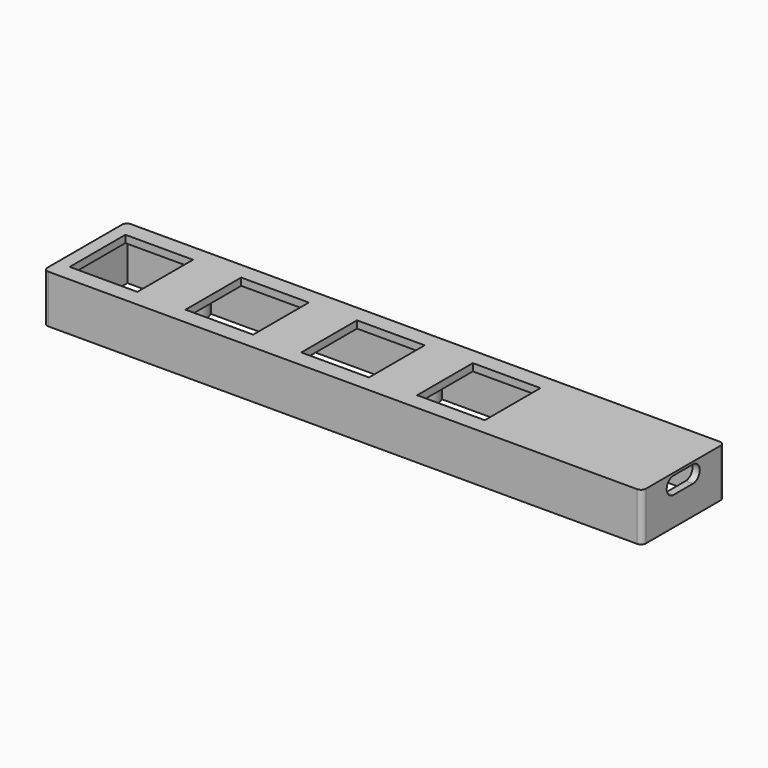
from build123d import *

# Parameters (mm, degrees)
SKETCH005_W     = 122.986
SKETCH005_H     = 21.18
SKETCH005_W_2   = 119.986
SKETCH005_H_2   = 18.18
PAD004_DEPTH    = 9.9
SKETCH006_W     = 122.986
SKETCH006_H     = 21.18
PAD005_DEPTH    = 1.5
SKETCH007_W     = 13.9
SKETCH007_H     = 14.3
POCKET001_DEPTH = 9.901
SKETCH008_R     = 1.45
SKETCH008_W     = 1.5
SKETCH008_H     = 18.18
PAD006_DEPTH    = 3.5
SKETCH009_W     = 9
SKETCH009_H     = 2
SKETCH009_W_2   = 17
PAD007_DEPTH    = 2
POCKET002_DEPTH = 6.5
FILLET_R        = 1
PAD008_DEPTH    = 18.18
SKETCH012_W     = 50
SKETCH012_H     = 5
POCKET003_DEPTH = 1
CHAMFER001_SIZE = 0.5
SKETCH013_R     = 1.45
POCKET004_DEPTH = 1


with BuildPart() as part:
    # Sketch005 (on ShapeBinder) → Pad004 (new body)
    with BuildSketch(Plane(origin=(-93.484762, 101.426, -4.5), x_dir=(1, 0, 0), z_dir=(0, 0, -1))):
        with Locations((153.277762, 92.79)):
            Rectangle(SKETCH005_W, SKETCH005_H)
        with Locations((153.277762, 92.79)):
            Rectangle(SKETCH005_W_2, SKETCH005_H_2, mode=Mode.SUBTRACT)
    extrude(amount=-PAD004_DEPTH)

    # Sketch006 (on Face10 of Pad004) → Pad005 (join)
    with BuildSketch(Plane(origin=(-93.484762, 101.426, 5.4), x_dir=(1, 0, 0), z_dir=(0, 0, 1))):
        with Locations((153.277762, -92.79)):
            Rectangle(SKETCH006_W, SKETCH006_H)
    extrude(amount=-PAD005_DEPTH)

    # Sketch007 (on Face16 of Pad005) → Pocket001 (cut, through all)
    with BuildSketch(Plane(origin=(-93.484762, 101.426, 5.4), x_dir=(1, 0, 0), z_dir=(0, 0, 1))):
        with Locations((101.358762, -92.79)):
            Rectangle(SKETCH007_W, SKETCH007_H)
        with Locations((125.158762, -92.79)):
            Rectangle(SKETCH007_W, SKETCH007_H)
        with Locations((148.958762, -92.79)):
            Rectangle(SKETCH007_W, SKETCH007_H)
        with Locations((172.758762, -92.79)):
            Rectangle(SKETCH007_W, SKETCH007_H)
    extrude(amount=-POCKET001_DEPTH, mode=Mode.SUBTRACT)

    # Sketch008 (on Face15 of Pocket001) → Pad006 (join)
    with BuildSketch(Plane(origin=(-93.484762, 101.426, 3.9), x_dir=(1, 0, 0), z_dir=(0, 0, -1))):
        with BuildLine():
            Line((112.483762, 96.208699), (112.483762, 101.88))
            Line((112.483762, 101.88), (113.983762, 101.88))
            Line((113.983762, 101.88), (113.983762, 96.208699))
            ThreePointArc((113.983762, 89.371301), (116.733762, 92.79), (113.983762, 96.208699))
            Line((113.983762, 83.7), (113.983762, 89.371301))
            Line((112.483762, 83.7), (113.983762, 83.7))
            Line((112.483762, 83.7), (112.483762, 89.371301))
            ThreePointArc((112.483762, 96.208699), (109.733762, 92.79), (112.483762, 89.371301))
        make_face()
        with Locations((113.233762, 92.79)):
            Circle(SKETCH008_R, mode=Mode.SUBTRACT)
        with Locations((136.983762, 92.79)):
            Rectangle(SKETCH008_W, SKETCH008_H)
        with BuildLine():
            Line((159.983762, 101.88), (161.483762, 101.88))
            Line((161.483762, 101.88), (161.483762, 96.208699))
            ThreePointArc((161.483762, 89.371301), (164.233762, 92.79), (161.483762, 96.208699))
            Line((161.483762, 83.7), (161.483762, 89.371301))
            Line((159.983762, 83.7), (161.483762, 83.7))
            Line((159.983762, 83.7), (159.983762, 89.371301))
            ThreePointArc((159.983762, 96.208699), (157.233762, 92.79), (159.983762, 89.371301))
            Line((159.983762, 101.88), (159.983762, 96.208699))
        make_face()
        with Locations((160.733762, 92.79)):
            Circle(SKETCH008_R, mode=Mode.SUBTRACT)
    extrude(amount=PAD006_DEPTH)

    # Sketch009 (on Face27 of Pad006) → Pad007 (join)
    with BuildSketch(Plane(origin=(-93.484762, 101.426, 3.9), x_dir=(1, 0, 0), z_dir=(0, 0, -1))):
        with Locations((195.770762, 84.7)):
            Rectangle(SKETCH009_W, SKETCH009_H)
        with Locations((191.770762, 100.88)):
            Rectangle(SKETCH009_W_2, SKETCH009_H)
    extrude(amount=PAD007_DEPTH)

    # Sketch010 (on Face5 of Pad007) → Pocket002 (cut)
    with BuildSketch(Plane(origin=(121.286, 101.426, -1.6), x_dir=(0, 1, 0), z_dir=(1, 0, 0))):
        with BuildLine():
            ThreePointArc((-95.29, 6.5), (-97.04, 4.75), (-95.29, 3))
            Line((-95.29, 3), (-90.29, 3))
            ThreePointArc((-90.29, 3), (-88.54, 4.75), (-90.29, 6.5))
            Line((-95.29, 6.5), (-90.29, 6.5))
        make_face()
    extrude(amount=-POCKET002_DEPTH, mode=Mode.SUBTRACT)

    # Fillet
    fillet_edges = [part.edges().sort_by_distance(p)[0] for p in [
        (121.286, 19.226, -0.3),
        (121.286, -1.954, -0.3),
        (-1.7, 19.226, -0.3),
        (-1.7, -1.954, -0.3),
    ]]
    fillet(fillet_edges, radius=FILLET_R)

    # Sketch011 (on Face14 of Fillet) → Pad008 (join)
    with BuildSketch(Plane(origin=(-93.484762, -0.454, -1.6), x_dir=(-1, 0, 0), z_dir=(0, 1, 0))):
        with BuildLine():
            ThreePointArc((-213.270762, -1.1), (-212.070762, 0.1), (-213.270762, 1.3))
            Line((-213.270762, 1.3), (-213.270762, -1.1))
        make_face()
    extrude(amount=PAD008_DEPTH)

    # Sketch012 (on Face1 of Pad008) → Pocket003 (cut)
    with BuildSketch(Plane(origin=(-93.484762, 19.226, -1.6), x_dir=(-1, 0, 0), z_dir=(0, 1, 0))):
        with Locations((-137.058762, 2.05)):
            Rectangle(SKETCH012_W, SKETCH012_H)
    extrude(amount=-POCKET003_DEPTH, mode=Mode.SUBTRACT)

    # Chamfer001
    chamfer001_edges = [part.edges().sort_by_distance(p)[0] for p in [
        (43.574, 19.226, -2.05),
        (68.574, 19.226, 0.45),
        (43.574, 19.226, 2.95),
        (18.574, 19.226, 0.45),
    ]]
    chamfer(chamfer001_edges, length=CHAMFER001_SIZE)

    # Sketch013 (on Face87 of Chamfer001) → Pocket004 (cut)
    with BuildSketch(Plane(origin=(-93.484762, 101.426, 3.9), x_dir=(1, 0, 0), z_dir=(0, 0, -1))):
        with Locations((113.233762, 92.79)):
            Circle(SKETCH013_R)
        with Locations((160.733762, 92.79)):
            Circle(SKETCH013_R)
    extrude(amount=-POCKET004_DEPTH, mode=Mode.SUBTRACT)


solid = part.part
